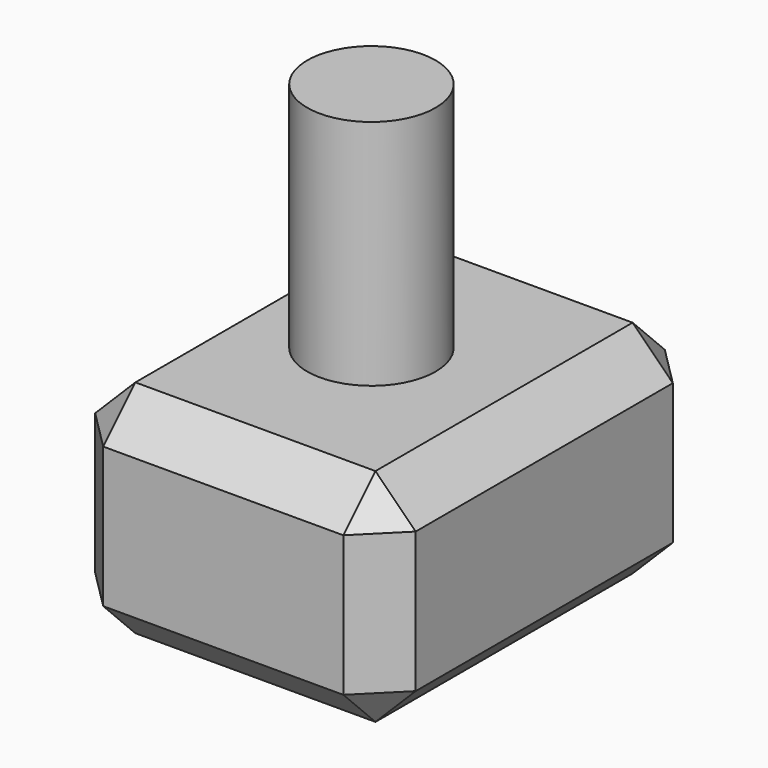
from build123d import *

# Parameters (mm, degrees)
F0_W     = 101.289254
F0_H     = 69.795959
F1_DEPTH = 63.5
F2_SIZE  = 12.7
F3_R     = 20.297571
F4_DEPTH = 73.406


with BuildPart() as f1:
    # F0 (on Front) → F1 (new body, symmetric)
    with BuildSketch(Plane.XZ):
        with Locations((3.972126, -5.390744)):
            Rectangle(F0_W, F0_H)
    extrude(amount=F1_DEPTH, both=True)

    # F2
    f2_edges = [f1.edges().sort_by_distance(p)[0] for p in [
        (3.972126, -63.5, 29.507235),
        (54.616753, 0, 29.507235),
        (3.972126, 63.5, 29.507235),
        (-46.672501, 0, 29.507235),
        (54.616753, -63.5, -5.390745),
        (54.616753, 63.5, -5.390745),
        (-46.672501, -63.5, -5.390745),
        (-46.672501, 63.5, -5.390745),
        (3.972126, 63.5, -40.288724),
        (-46.672501, 0, -40.288724),
        (3.972126, -63.5, -40.288724),
        (54.616753, 0, -40.288724),
    ]]
    chamfer(f2_edges, length=F2_SIZE)

    # F3 (on face) → F4 (join)
    with BuildSketch(Plane.XY.offset(29.507235)):
        Circle(F3_R)
    extrude(amount=F4_DEPTH)


solid = f1.part
